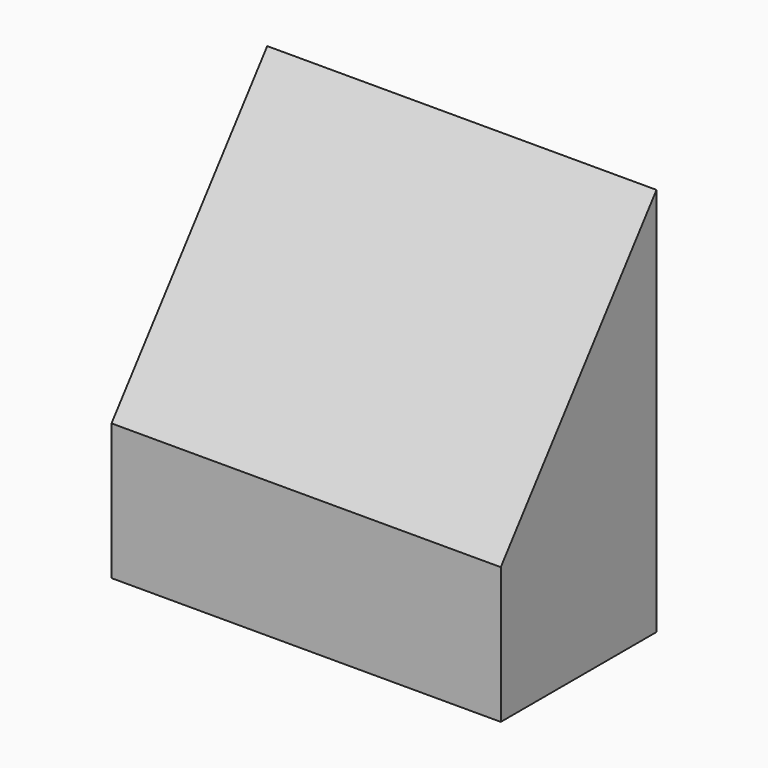
from build123d import *

# Parameters (mm, degrees)
F0_W     = 200
F0_H     = 100
F1_DEPTH = 5
F3_DEPTH = 200


with BuildPart() as f1:
    # F0 (on Top) → F1 (new body)
    with BuildSketch(Plane.XY):
        Rectangle(F0_W, F0_H)
    extrude(amount=F1_DEPTH)

    # F2 (on face) → F3 (join)
    with BuildSketch(Plane.YZ.offset(100)):
        Polygon((-50, 70), (-50, 5), (50, 5), (50, 200), align=None)
    extrude(amount=-F3_DEPTH)


solid = f1.part
